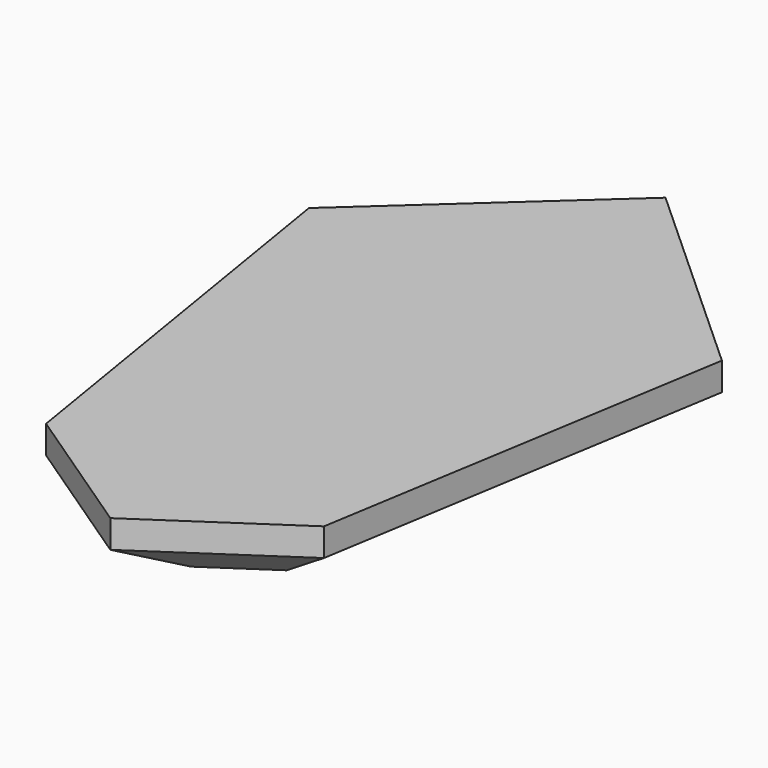
from build123d import *

# Parameters (mm, degrees)
F0_W     = 17.78
F0_H     = 31.9431498042
F1_DEPTH = 7.62
F2_SIZE2 = 7.62
F2_SIZE  = 5.08
F4_DEPTH = 1.27


with BuildPart() as f1:
    # F0 (on Top) → F1 (new body)
    with BuildSketch(Plane.XY):
        with Locations((1.2714529847, -2.1828604469)):
            Rectangle(F0_W, F0_H)
        Polygon((20.0711702637, 16.0299425669), (10.1614529847, 13.7887144552), (10.1614529847, -18.154435349), (13.9213964405, -21.5704601161), align=None)
        Polygon((-7.6185470153, -18.154435349), (-7.6185470153, 13.7887144552), (-17.5282642944, 16.0299425669), (-11.3784904712, -21.5704601161), align=None)
        Polygon((10.1614529847, -18.154435349), (-7.6185470153, -18.154435349), (-11.3784904712, -21.5704601161), (1.2714529847, -30.0696677594), (13.9213964405, -21.5704601161), align=None)
        Polygon((-17.5282642944, 16.0299425669), (-7.6185470153, 13.7887144552), (10.1614529847, 13.7887144552), (20.0711702637, 16.0299425669), (1.2714529847, 33.1100664022), align=None)
    extrude(amount=F1_DEPTH)

    # F2
    f2_edges = [f1.edges().sort_by_distance(p)[0] for p in [
        (-14.453377, -2.770259, 0),
        (-5.053519, -25.820064, 0),
        (7.596425, -25.820064, 0),
        (16.996283, -2.770259, 0),
        (10.671312, 24.570004, 0),
        (-8.128406, 24.570004, 0),
    ]]
    chamfer(f2_edges, length=F2_SIZE, length2=F2_SIZE2)

    # F3 (on face) → F4 (cut)
    with BuildSketch(Plane(origin=(0, 0, 0), x_dir=(1, 0, 0), z_dir=(0, 0, -1))):
        Polygon((1.3861381407, -1.0392206757), (1.3861381407, -15.0092206757), (4.0282764242, 0), (1.4882764242, 0), (1.3861381407, 13.9696266153), (-1.1537980354, -1.0572268218), align=None)
    extrude(amount=-F4_DEPTH, mode=Mode.SUBTRACT)


solid = f1.part
